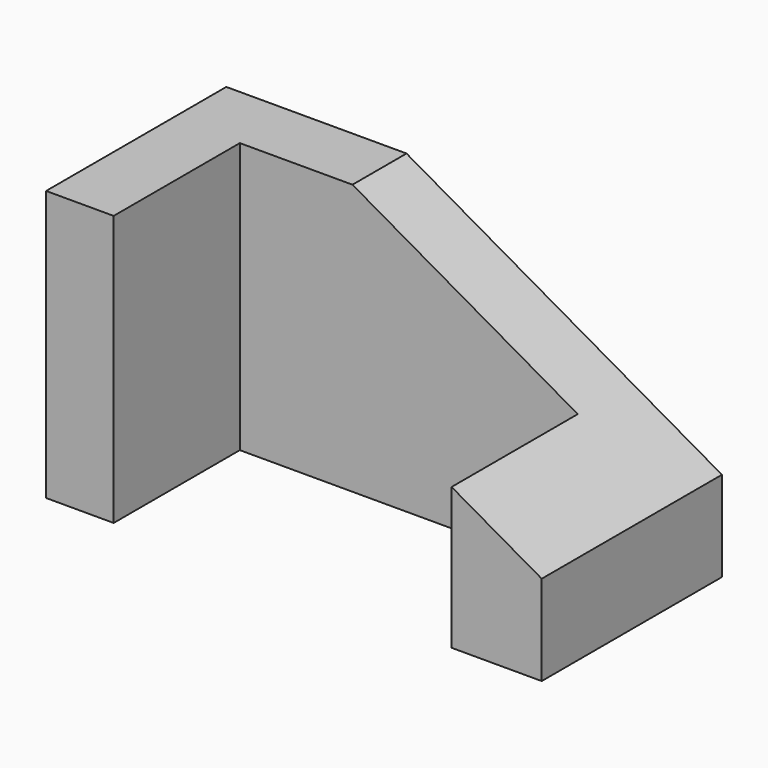
from build123d import *

# Parameters (mm, degrees)
F0_W     = 20
F0_H     = 15
F0_W_2   = 75
F0_H_2   = 35
F0_W_3   = 15
F1_DEPTH = 60
F3_DEPTH = 50


with BuildPart() as f1:
    # F0 (on Top) → F1 (new body)
    with BuildSketch(Plane.XY):
        with Locations((45, 17.5)):
            Rectangle(F0_W, F0_H)
        with Locations((-2.5, 17.5)):
            Rectangle(F0_W_2, F0_H)
        with Locations((45, -7.5)):
            Rectangle(F0_W, F0_H_2)
        with Locations((-47.5, 17.5)):
            Rectangle(F0_W_3, F0_H)
        with Locations((-47.5, -7.5)):
            Rectangle(F0_W_3, F0_H_2)
    extrude(amount=F1_DEPTH)

    # F2 (on face) → F3 (cut)
    with BuildSketch(Plane.XZ.offset(25)):
        Polygon((55, 60), (-15, 60), (55, 20), align=None)
    extrude(amount=-F3_DEPTH, mode=Mode.SUBTRACT)


solid = f1.part
